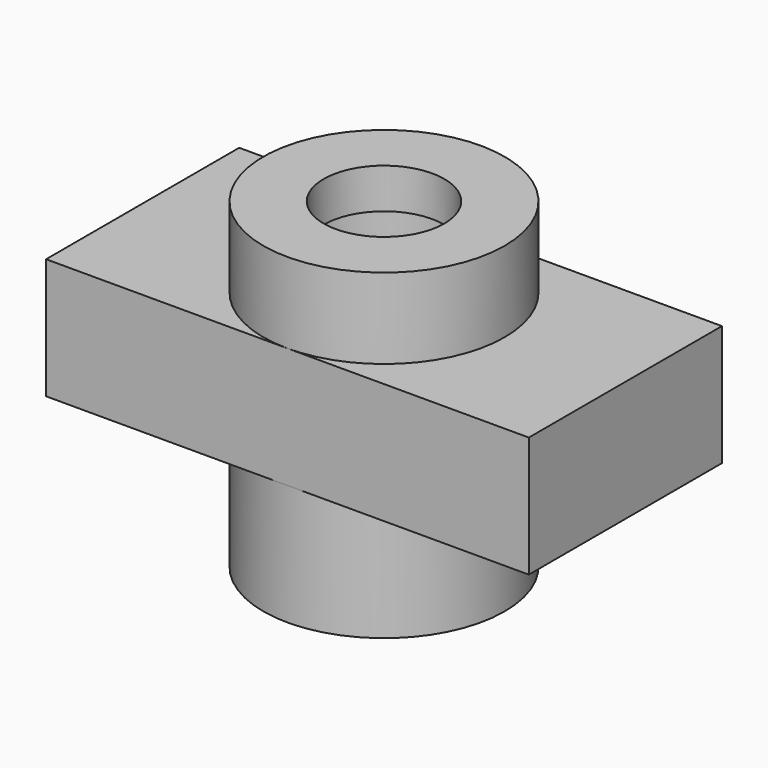
from build123d import *

# Parameters (mm, degrees)
F3_DEPTH = 6.35
F4_DEPTH = 6.35


with BuildPart() as f1:
    # F0 (on Front) → F1 (revolve)
    with BuildSketch(Plane.XZ):
        Polygon((9.525, 12.7), (9.525, 0), (9.525, -25.4), (19.05, -25.4), (19.05, 25.4), (9.525, 25.4), (9.525, 19.05), (12.7, 19.05), (12.7, 12.7), align=None)
    revolve(axis=Axis((0, 0, -5.176147446), (0, 0, -1)))

    # F2 (on Top) → F3 (join, symmetric)
    with BuildSketch(Plane.XY):
        with BuildLine():
            Line((38.1, -19.05), (38.1, 19.05))
            Line((38.1, 19.05), (3.68e-08, 19.05))
            ThreePointArc((3.68e-08, 19.05), (13.4703841946, 13.4703841686), (19.05, 0))
            ThreePointArc((19.05, 0), (13.4703841946, -13.4703841686), (3.68e-08, -19.05))
            Line((3.68e-08, -19.05), (38.1, -19.05))
        make_face()
        with BuildLine():
            ThreePointArc((3.68e-08, -19.05), (-19.05, 0), (3.68e-08, 19.05))
            Line((3.68e-08, 19.05), (-38.1, 19.05))
            Line((-38.1, 19.05), (-38.1, -19.05))
            Line((-38.1, -19.05), (3.68e-08, -19.05))
        make_face()
    extrude(amount=F3_DEPTH, both=True)

    # F4 (add, symmetric): faces of the model
    f4_faces = [f1.faces().sort_by_distance(p)[0] for p in [
        (-26.1402535738, 0, 6.35),
        (26.1402535738, 0, 6.35),
    ]]
    extrude(f4_faces, amount=F4_DEPTH, both=True)


solid = f1.part
